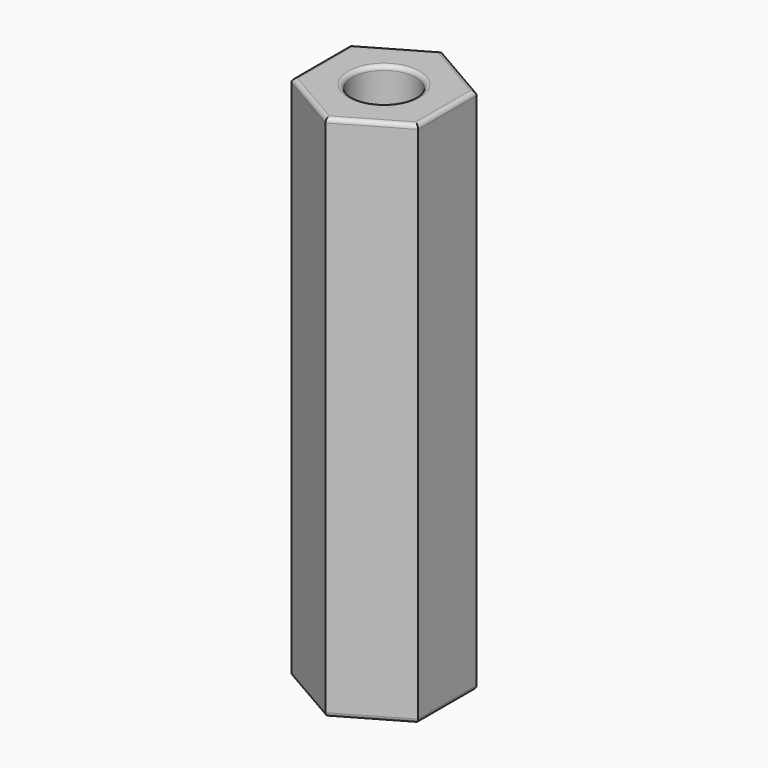
from build123d import *

# Parameters (mm, degrees)
F0_R     = 1.5
F1_DEPTH = 25
F2_R     = 0.2


with BuildPart() as f1:
    # F0 (on Top) → F1 (new body)
    with BuildSketch(Plane.XY):
        Polygon((3, 1.732051), (0, 3.464102), (-3, 1.732051), (-3, -1.732051), (0, -3.464102), (3, -1.732051), align=None)
        Circle(F0_R, mode=Mode.SUBTRACT)
    extrude(amount=F1_DEPTH)

    # F2
    f2_edges = [f1.edges().sort_by_distance(p)[0] for p in [
        (1.5, 2.598076, 25),
        (-1.5, 2.598076, 25),
        (-3, 0, 25),
        (-1.5, -2.598076, 25),
        (1.5, -2.598076, 25),
        (3, 0, 25),
        (-1.5, 0, 25),
        (1.5, 2.598076, 0),
        (-1.5, 2.598076, 0),
        (-3, 0, 0),
        (-1.5, -2.598076, 0),
        (1.5, -2.598076, 0),
        (3, 0, 0),
        (-1.5, 0, 0),
    ]]
    fillet(f2_edges, radius=F2_R)


solid = f1.part
